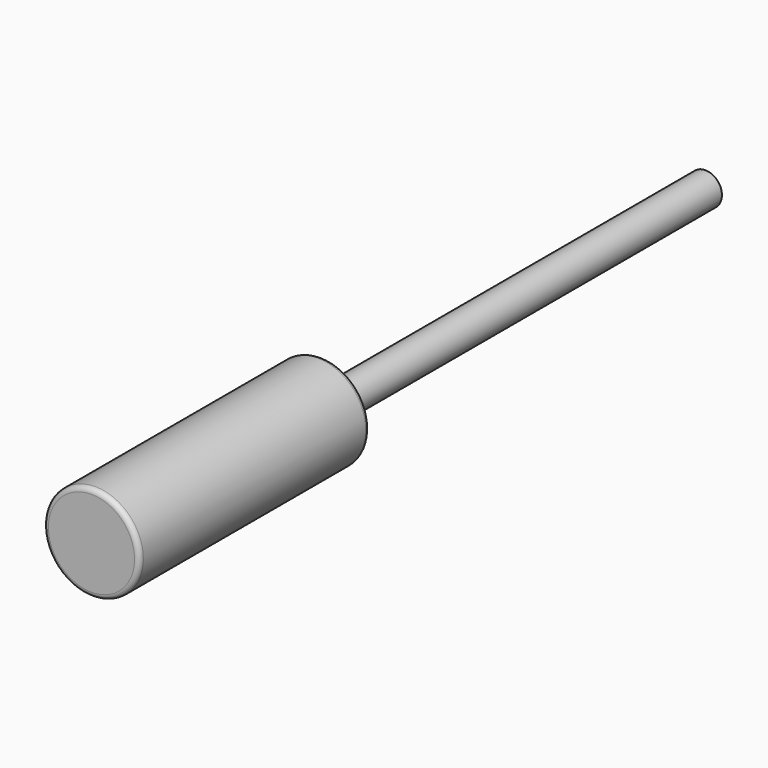
from build123d import *

# Parameters (mm, degrees)
F2_T = -2.54
F3_R = 5.08


with BuildPart() as f1:
    # F0 (on Right) → F1 (revolve)
    with BuildSketch(Plane.YZ):
        Polygon((78.3833178774, 68.3245788985), (-221.6166821226, 68.3245788985), (-221.6166821226, 18.3245788985), (578.3833178774, 18.3245788985), (578.3833178774, 35.5585788985), (78.3833178774, 35.5585788985), align=None)
    revolve(axis=Axis((0, 178.3833178774, 18.3245788985), (0, 1, 0)))

    # F2
    f2_openings = [f1.faces().sort_by_distance(p)[0] for p in [
        (0, 578.383318, 18.324579),
    ]]
    offset(amount=F2_T, openings=f2_openings, kind=Kind.INTERSECTION)

    # F3
    f3_edges = [f1.edges().sort_by_distance(p)[0] for p in [
        (0, 78.383318, -31.675421),
        (0, 78.383318, 1.090579),
        (0, -221.616682, -31.675421),
    ]]
    fillet(f3_edges, radius=F3_R)


solid = f1.part
